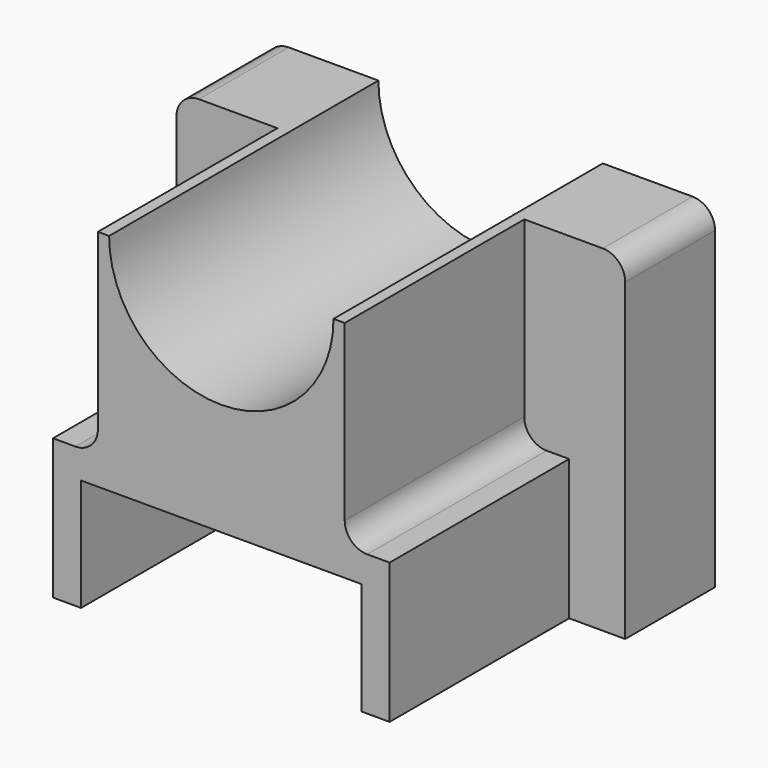
from build123d import *

# Parameters (mm, degrees)
F0_W     = 101.6
F0_H     = 76.2
F1_DEPTH = 76.2
F3_DEPTH = 76.201
F2_W     = 63.5
F2_H     = 25.4
F4_DEPTH = 63.5
F2_W_2   = 12.7
F2_H_2   = 31.75
F5_DEPTH = 50.8
F6_R     = 5.08
F7_R     = 5.08


with BuildPart() as f1:
    # F0 (on Front) → F1 (new body)
    with BuildSketch(Plane.XZ):
        Rectangle(F0_W, F0_H)
    extrude(amount=F1_DEPTH)

    # F2 (on face) → F3 (cut, through all)
    with BuildSketch(Plane.XZ.offset(76.2)):
        with BuildLine():
            ThreePointArc((-25.4, 38.1), (0, 12.7), (25.4, 38.1))
            Line((25.4, 38.1), (-25.4, 38.1))
        make_face()
    extrude(amount=-F3_DEPTH, mode=Mode.SUBTRACT)

    # F2 (on face) → F4 (cut)
    with BuildSketch(Plane.XZ.offset(76.2)):
        with Locations((0, -25.4)):
            Rectangle(F2_W, F2_H)
    extrude(amount=-F4_DEPTH, mode=Mode.SUBTRACT)

    # F2 (on face) → F5 (cut)
    with BuildSketch(Plane.XZ.offset(76.2)):
        Polygon((50.8, 38.1), (27.94, 38.1), (27.94, -6.35), (38.1, -6.35), (50.8, -6.35), align=None)
        with Locations((44.45, -22.225)):
            Rectangle(F2_W_2, F2_H_2)
        Polygon((-27.94, -6.35), (-27.94, 38.1), (-50.8, 38.1), (-50.8, -6.35), (-38.1, -6.35), align=None)
        with Locations((-44.45, -22.225)):
            Rectangle(F2_W_2, F2_H_2)
    extrude(amount=-F5_DEPTH, mode=Mode.SUBTRACT)

    # F6
    f6_edges = [f1.edges().sort_by_distance(p)[0] for p in [
        (27.94, -50.8, -6.35),
        (-27.94, -50.8, -6.35),
    ]]
    fillet(f6_edges, radius=F6_R)

    # F7
    f7_edges = [f1.edges().sort_by_distance(p)[0] for p in [
        (50.8, -12.7, 38.1),
        (-50.8, -12.7, 38.1),
    ]]
    fillet(f7_edges, radius=F7_R)


solid = f1.part
